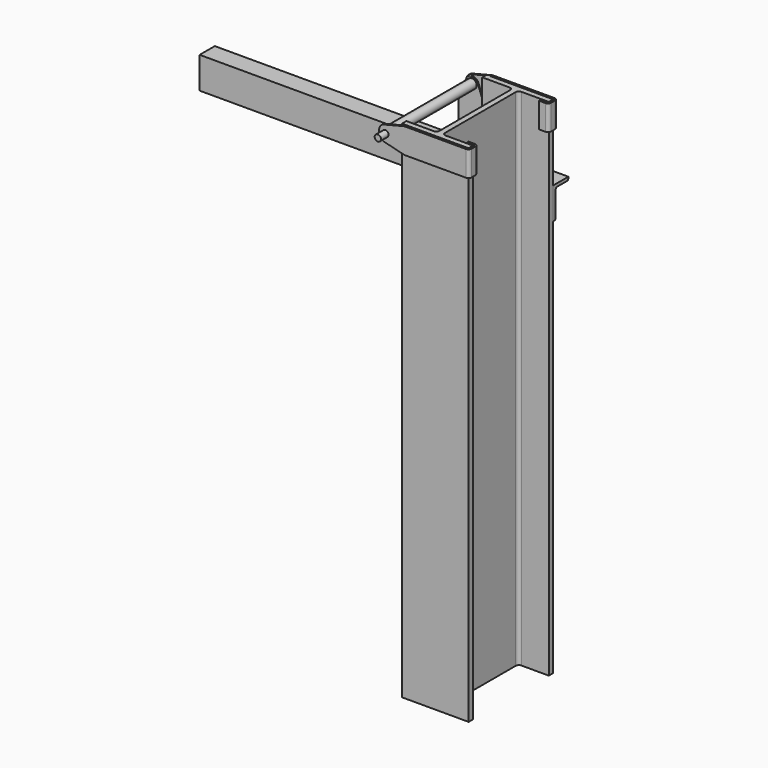
from build123d import *

# Parameters (mm, degrees)
F1_DEPTH   = 1016
F2_R       = 6.35
F4_DEPTH   = 50.8
F5_R       = 3.175
F6_R       = 6.35
F7_SIZE2   = 12.7
F7_SIZE    = 50.8
F7_2_SIZE2 = 12.7
F7_2_SIZE  = 50.8
F8_R       = 12.7
F10_D      = 12.7
F10_DEPTH  = 12.7
F10_TIP    = 3.8154649308
F12_R      = 6.35
F13_DEPTH  = 28.575
F20_R      = 6.35
F21_DEPTH  = 3.175
F22_R      = 9.525
F24_DEPTH  = 711.2
F27_D      = 9.525
F27_DEPTH  = 9.525
F27_TIP    = 2.8615986981
F29_DEPTH  = 3.175
F31_DEPTH  = 3.175
F32_W      = 22.225
F32_H      = 3.175
F33_DEPTH  = 209.3185278984


with BuildPart() as f1:
    # F0 (on Top) → F1 (new body)
    with BuildSketch(Plane.XY):
        Polygon((-66.9925, -95.25), (-66.9925, -106.3625), (66.9925, -106.3625), (66.9925, -95.25), (5.55625, -95.25), (5.55625, 95.25), (66.9925, 95.25), (66.9925, 106.3625), (-66.9925, 106.3625), (-66.9925, 95.25), (-5.55625, 95.25), (-5.55625, -95.25), align=None)
    extrude(amount=-F1_DEPTH)

    # F2
    f2_edges = [f1.edges().sort_by_distance(p)[0] for p in [
        (5.55625, 95.25, -508),
        (-5.55625, 95.25, -508),
        (-5.55625, -95.25, -508),
        (5.55625, -95.25, -508),
    ]]
    fillet(f2_edges, radius=F2_R)


with BuildPart() as f4:
    # F3 (on face) → F4 (new body)
    with BuildSketch(Plane.XY):
        Polygon((-109.2073, 107.9627), (68.5927, 107.9627), (68.5927, 92.0877), (52.7177, 92.0877), (52.7177, 88.9127), (71.7677, 88.9127), (71.7677, 111.1377), (-109.2073, 111.1377), align=None)
    extrude(amount=-F4_DEPTH)

    # F5
    f5_edges = [f4.edges().sort_by_distance(p)[0] for p in [
        (68.5927, 107.9627, -25.4),
        (68.5927, 92.0877, -25.4),
    ]]
    fillet(f5_edges, radius=F5_R)

    # F6
    f6_edges = [f4.edges().sort_by_distance(p)[0] for p in [
        (71.7677, 111.1377, -25.4),
        (71.7677, 88.9127, -25.4),
    ]]
    fillet(f6_edges, radius=F6_R)

    # F7
    f7_edges = [f4.edges().sort_by_distance(p)[0] for p in [
        (-109.2073, 109.5502, 0),
    ]]
    f7_side = f4.faces().sort_by_distance((-21.8948, 109.314354, 0))[0]
    chamfer(f7_edges, length=F7_SIZE, length2=F7_SIZE2, reference=f7_side)

    # F7#2
    f7_2_edges = [f4.edges().sort_by_distance(p)[0] for p in [
        (-109.2073, 109.5502, -50.8),
    ]]
    f7_2_side = f4.faces().sort_by_distance((-21.8948, 109.314354, -50.8))[0]
    chamfer(f7_2_edges, length=F7_2_SIZE, length2=F7_2_SIZE2, reference=f7_2_side)

    # F8
    f8_edges = [f4.edges().sort_by_distance(p)[0] for p in [
        (-58.4073, 109.5502, 0),
        (-109.2073, 109.5502, -12.7),
        (-109.2073, 109.5502, -38.1),
        (-58.4073, 109.5502, -50.8),
    ]]
    fillet(f8_edges, radius=F8_R)

    # F10
    with Locations(Plane(origin=(0, 111.1377, 0), x_dir=(-1, 0, 0), z_dir=(0, 1, 0))):
        with Locations((96.5073, -25.4)):
            Hole(F10_D / 2, depth=F10_DEPTH)
            with Locations((0, 0, -(F10_DEPTH + F10_TIP / 2))):  # 118° drill point
                Cone(0, F10_D / 2, F10_TIP, mode=Mode.SUBTRACT)


with BuildPart() as f13:
    # F12 (on offset) → F13 (new body)
    with BuildSketch(Plane(origin=(0, 130.1877, 0), x_dir=(-1, 0, 0), z_dir=(0, 1, 0))):
        with Locations((96.5073, -25.4)):
            Circle(F12_R)
    extrude(amount=-F13_DEPTH)


with BuildPart() as f14_1:
    # F14: instance of F4
    add(f4.part.mirror(Plane.XZ))


with BuildPart() as f19:
    # F18 (on plane+point) → F19 (revolve)
    with BuildSketch(Plane(origin=(-96.5073, 0, 0), x_dir=(0, -1, 0), z_dir=(-1, 0, 0))):
        Polygon((-130.1877, -19.05), (-130.1877, -25.4), (130.1877, -25.4), (130.1877, -19.05), (106.3625, -19.05), (106.3625, -15.875), (-106.3625, -15.875), (-106.3625, -19.05), align=None)
    revolve(axis=Axis((-96.5073, 0, -25.4), (0, -1, 0)))


with BuildPart() as f21:
    # F20 (on face) → F21 (new body)
    with BuildSketch(Plane(origin=(0, 106.3625, 0), x_dir=(-1, 0, 0), z_dir=(0, 1, 0))):
        with BuildLine():
            Line((123.889623636, -63.5), (108.441396284, -21.0563441798))
            ThreePointArc((108.441396284, -21.0563441798), (96.5073, -12.7), (84.573203716, -21.0563441798))
            Line((84.573203716, -21.0563441798), (69.124976364, -63.5))
            Line((69.124976364, -63.5), (47.689623636, -63.5))
            Line((47.689623636, -63.5), (47.689623636, -139.7))
            Line((47.689623636, -139.7), (123.889623636, -139.7))
            Line((123.889623636, -139.7), (123.889623636, -63.5))
        make_face()
        with Locations((96.5073, -25.4)):
            Circle(F20_R, mode=Mode.SUBTRACT)
    extrude(amount=F21_DEPTH)

    # F22
    f22_edges = [f21.edges().sort_by_distance(p)[0] for p in [
        (-69.124976, 107.95, -63.5),
        (-47.689624, 107.95, -63.5),
        (-47.689624, 107.95, -139.7),
        (-123.889624, 107.95, -139.7),
        (-123.889624, 107.95, -63.5),
    ]]
    fillet(f22_edges, radius=F22_R)


with BuildPart() as f24:
    # F23 (on face) → F24 (new body)
    with BuildSketch(Plane.YZ.offset(66.9925)):
        with BuildLine():
            Line((106.3625, -152.4), (106.3625, -215.9))
            Line((106.3625, -215.9), (109.5375, -215.9))
            ThreePointArc((109.5375, -215.9), (111.7825640303, -214.9700640303), (112.7125, -212.725))
            Line((112.7125, -212.725), (112.7125, -161.925))
            ThreePointArc((112.7125, -161.925), (113.6424359697, -159.6799359697), (115.8875, -158.75))
            Line((115.8875, -158.75), (141.2875, -158.75))
            ThreePointArc((141.2875, -158.75), (143.5325640303, -157.8200640303), (144.4625, -155.575))
            Line((144.4625, -155.575), (144.4625, -152.4))
            Line((144.4625, -152.4), (106.3625, -152.4))
        make_face()
    extrude(amount=-F24_DEPTH)

    # F27
    with Locations(Plane(origin=(0, 112.7125, 0), x_dir=(-1, 0, 0), z_dir=(0, 1, 0))):
        with Locations((-41.5925, -190.5), (212.4075, -190.5)):
            Hole(F27_D / 2, depth=F27_DEPTH)
            with Locations((0, 0, -(F27_DEPTH + F27_TIP / 2))):  # 118° drill point
                Cone(0, F27_D / 2, F27_TIP, mode=Mode.SUBTRACT)


with BuildPart() as f29:
    # F28 (on face) → F29 (new body)
    with BuildSketch(Plane(origin=(0, 112.7125, 0), x_dir=(-1, 0, 0), z_dir=(0, 1, 0))):
        with BuildLine():
            ThreePointArc((-32.7606478705, -181.3737527996), (-50.7187472004, -181.6681478705), (-50.4243521295, -199.6262472004))
            Line((-50.4243521295, -199.6262472004), (67.6856478705, -313.9262472004))
            ThreePointArc((67.6856478705, -313.9262472004), (85.6437472004, -313.6318521295), (85.3493521295, -295.6737527996))
            Line((85.3493521295, -295.6737527996), (-32.7606478705, -181.3737527996))
        make_face()
        with BuildLine():
            ThreePointArc((81.28, -304.8), (74.7310931118, -309.2147657559), (73.0951572998, -301.4880554515))
            ThreePointArc((73.0951572998, -301.4880554515), (78.3039068882, -300.3852342441), (81.28, -304.8))
        make_face(mode=Mode.SUBTRACT)
        with BuildLine():
            ThreePointArc((-36.83, -190.5), (-37.1777342441, -192.2864068882), (-38.1701572998, -193.8119445485))
            ThreePointArc((-38.1701572998, -193.8119445485), (-46.0072657559, -188.7135931118), (-36.83, -190.5))
        make_face(mode=Mode.SUBTRACT)
    extrude(amount=F29_DEPTH)


with BuildPart() as f31:
    # F30 (on face) → F31 (new body)
    with BuildSketch(Plane(origin=(0, 112.7125, 0), x_dir=(-1, 0, 0), z_dir=(0, 1, 0))):
        Polygon((72.5435764768, -324.7377420194), (232.7312803045, -190.0004210428), (216.3814235232, -170.5622579806), (56.1937196955, -305.2995789572), align=None)
        with BuildLine():
            ThreePointArc((81.28, -304.8), (72.0431800281, -306.4315229202), (80.1621555742, -301.7344018535))
            ThreePointArc((80.1621555742, -301.7344018535), (80.9918199719, -303.1684770798), (81.28, -304.8))
        make_face(mode=Mode.SUBTRACT)
        with BuildLine():
            ThreePointArc((217.17, -190.5), (214.0390229202, -194.9743199719), (208.7628444258, -193.5655981465))
            ThreePointArc((208.7628444258, -193.5655981465), (210.7759770798, -186.0256800281), (217.17, -190.5))
        make_face(mode=Mode.SUBTRACT)
    extrude(amount=F31_DEPTH)

    # F32 (on face) → F33 (join, through all)
    with BuildSketch(Plane(origin=(117.4828916346, 0, -98.817385487), x_dir=(0, 1, 0), z_dir=(0.7652820103, 0, -0.6436951489))):
        with Locations((127, -271.3994002997)):
            Rectangle(F32_W, F32_H)
    extrude(amount=-F33_DEPTH)


solid = Compound([f1.part, f4.part, f14_1.part, f19.part, f21.part, f24.part, f29.part, f31.part])
